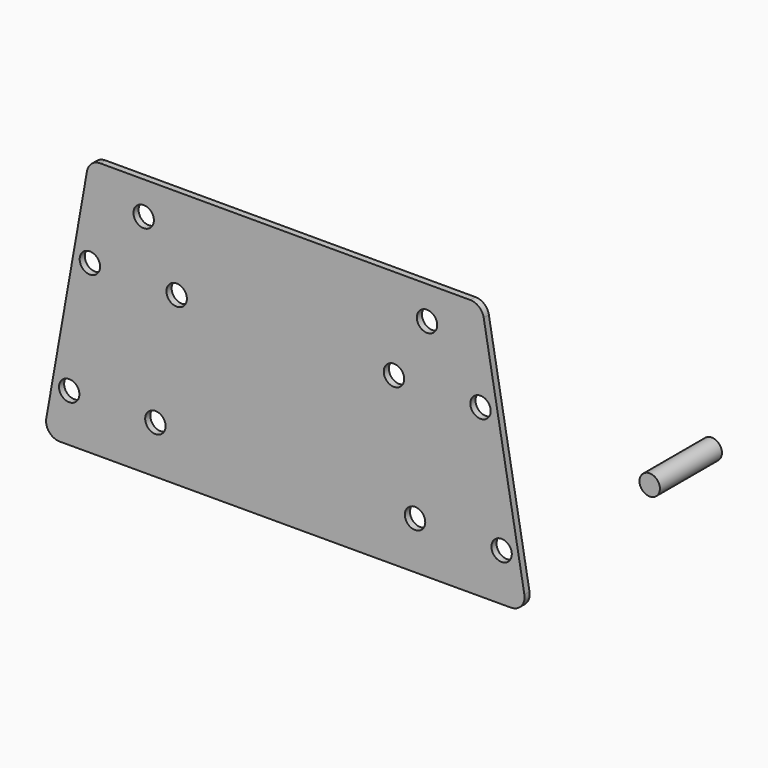
from build123d import *

# Parameters (mm, degrees)
F0_R     = 9.525
F1_DEPTH = 6
F2_R     = 9.525
F3_DEPTH = 72.4


with BuildPart() as f1:
    # F0 (on Front) → F1 (new body)
    with BuildSketch(Plane.XZ):
        with BuildLine():
            ThreePointArc((185.170145, 130.849026), (180.826489, 138.372459), (172.663086, 141.343695))
            Line((172.663086, 141.343695), (-172.663086, 141.343695))
            ThreePointArc((-172.663086, 141.343695), (-180.826489, 138.372459), (-185.170145, 130.849026))
            Line((-185.170145, 130.849026), (-223.183648, -84.736262))
            ThreePointArc((-223.183648, -84.736262), (-220.400571, -95.110693), (-210.661714, -99.641586))
            Line((-210.661714, -99.641586), (199.935223, -99.160662))
            Line((199.935223, -99.160662), (210.607121, -99.145539))
            ThreePointArc((210.607121, -99.145539), (220.32367, -94.602059), (223.096182, -84.24022))
            Line((223.096182, -84.24022), (185.170145, 130.849026))
        make_face()
        with Locations((-201.781796, -54.929208)):
            Circle(F0_R, mode=Mode.SUBTRACT)
        with Locations((-121.315579, -54.929208)):
            Circle(F0_R, mode=Mode.SUBTRACT)
        with Locations((121.079619, -54.929208)):
            Circle(F0_R, mode=Mode.SUBTRACT)
        with Locations((201.871937, -54.929208)):
            Circle(F0_R, mode=Mode.SUBTRACT)
        with Locations((-182.487054, 56.290428)):
            Circle(F0_R, mode=Mode.SUBTRACT)
        with Locations((-101.457953, 56.290428)):
            Circle(F0_R, mode=Mode.SUBTRACT)
        with Locations((-132.265884, 110.69636)):
            Circle(F0_R, mode=Mode.SUBTRACT)
        with Locations((101.387156, 56.290428)):
            Circle(F0_R, mode=Mode.SUBTRACT)
        with Locations((182.203565, 56.290428)):
            Circle(F0_R, mode=Mode.SUBTRACT)
        with Locations((132.265884, 110.69636)):
            Circle(F0_R, mode=Mode.SUBTRACT)
    extrude(amount=F1_DEPTH)


with BuildPart() as f3:
    # F2 (on face) → F3 (new body)
    with BuildSketch(Plane(origin=(0, 0, 0), x_dir=(-1, 0, 0), z_dir=(0, 1, 0))):
        with Locations((-335.314721, 39.854679)):
            Circle(F2_R)
    extrude(amount=F3_DEPTH)


solid = Compound([f1.part, f3.part])
